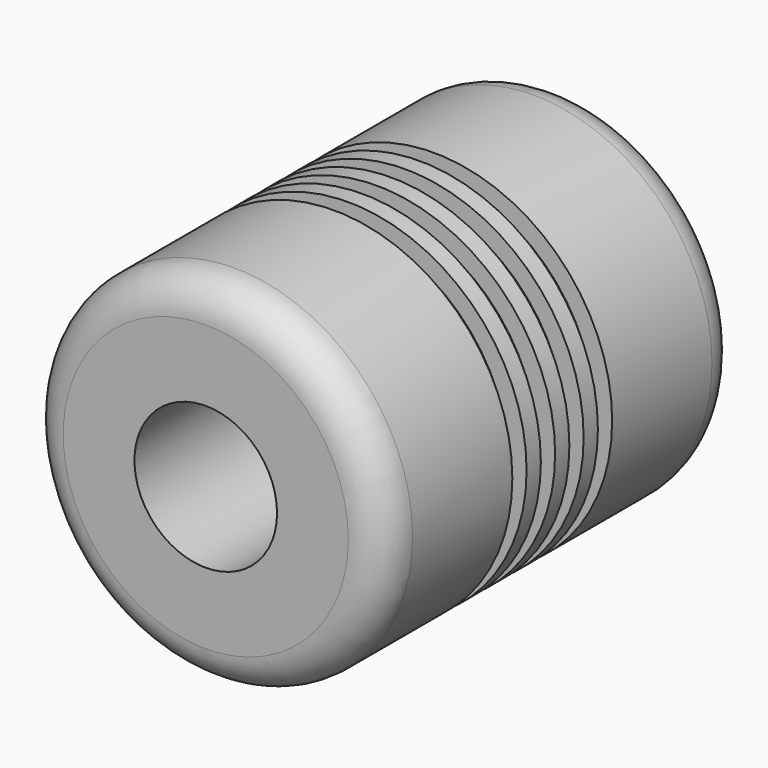
from build123d import *

# Parameters (mm, degrees)
F0_R     = 10
F0_R_2   = 2.5
F1_DEPTH = 25
F2_W     = 1
F2_H     = 1
F4_R     = 2
F5_R     = 4
F6_DEPTH = 20


with BuildPart() as f1:
    # F0 (on Front) → F1 (new body)
    with BuildSketch(Plane.XZ):
        Circle(F0_R)
        Circle(F0_R_2, mode=Mode.SUBTRACT)
    extrude(amount=-F1_DEPTH)

    # F2 (on Right) → F3 (revolve, cut)
    with BuildSketch(Plane.YZ):
        with Locations((11.5, 9.5)):
            Rectangle(F2_W, F2_H)
        with Locations((9.5, 9.5)):
            Rectangle(F2_W, F2_H)
        with Locations((13.5, 9.5)):
            Rectangle(F2_W, F2_H)
        with Locations((15.5, 9.5)):
            Rectangle(F2_W, F2_H)
    revolve(axis=Axis((0, 25, 0), (0, -1, 0)), mode=Mode.SUBTRACT)

    # F4
    f4_edges = [f1.edges().sort_by_distance(p)[0] for p in [
        (-10, 0, 0),
        (-10, 25, 0),
    ]]
    fillet(f4_edges, radius=F4_R)

    # F5 (on face) → F6 (cut)
    with BuildSketch(Plane.XZ):
        Circle(F5_R)
    extrude(amount=-F6_DEPTH, mode=Mode.SUBTRACT)


solid = f1.part
